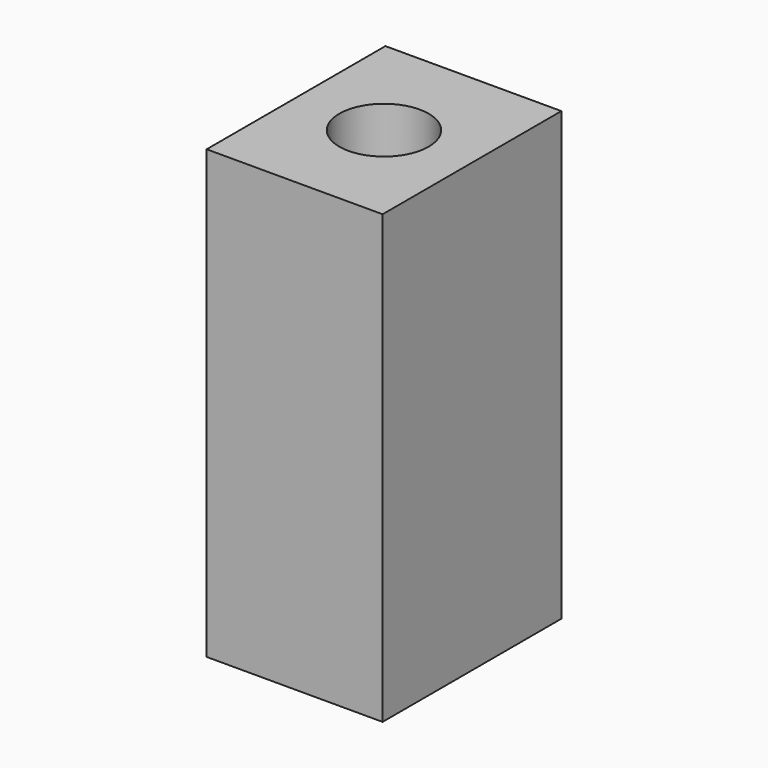
from build123d import *

# Parameters (mm, degrees)
F0_W     = 10
F0_H     = 12.7
F1_DEPTH = 12.7
F2_R     = 2.54
F3_DEPTH = 25.2


with BuildPart() as f1:
    # F0 (on Top) → F1 (new body, symmetric)
    with BuildSketch(Plane.XY):
        with Locations((-29.2331660166, 49.5663525627)):
            Rectangle(F0_W, F0_H)
    extrude(amount=F1_DEPTH, both=True)

    # F2 (on face) → F3 (cut, through all)
    with BuildSketch(Plane.XY.offset(12.7)):
        with Locations((-29.2331660166, 49.5663525627)):
            Circle(F2_R)
    extrude(amount=-F3_DEPTH, mode=Mode.SUBTRACT)


solid = f1.part
